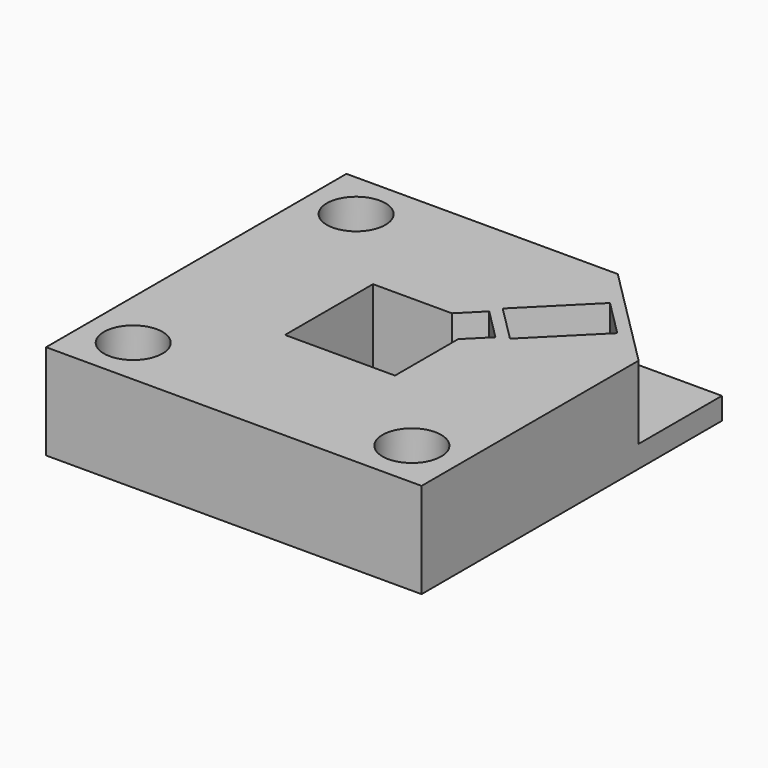
from build123d import *

# Parameters (mm, degrees)
F0_W      = 51.2
F0_H      = 51.2
F0_R      = 2
F1_DEPTH  = 3
F2_R      = 2
F3_DEPTH  = 5
F4_R      = 4
F5_DEPTH  = 5
F6_R      = 2
F7_DEPTH  = 2
F8_R      = 3.5
F9_DEPTH  = 11
F10_R     = 2
F11_DEPTH = 4
F13_DEPTH = 9


with BuildPart() as f1:
    # F0 (on Top) → F1 (new body)
    with BuildSketch(Plane.XY):
        Rectangle(F0_W, F0_H)
        with Locations((-19, -19)):
            Circle(F0_R, mode=Mode.SUBTRACT)
        with Locations((19, -19)):
            Circle(F0_R, mode=Mode.SUBTRACT)
        with Locations((-19, 19)):
            Circle(F0_R, mode=Mode.SUBTRACT)
    extrude(amount=F1_DEPTH)

    # F2 (on face) → F3 (join)
    with BuildSketch(Plane.XY.offset(3)):
        Polygon((11.4, 25.6), (-25.6, 25.6), (-25.6, -25.6), (25.6, -25.6), (25.6, 11.4), align=None)
        with Locations((-19, -19)):
            Circle(F2_R, mode=Mode.SUBTRACT)
        with Locations((19, -19)):
            Circle(F2_R, mode=Mode.SUBTRACT)
        with Locations((-19, 19)):
            Circle(F2_R, mode=Mode.SUBTRACT)
        Polygon((-7.5, -7.5), (-7.5, 7.5), (3.2573593129, 7.5), (6.0857864376, 10.3284271247), (10.3284271247, 6.0857864376), (7.5, 3.2573593129), (7.5, -7.5), align=None, mode=Mode.SUBTRACT)
    extrude(amount=F3_DEPTH)

    # F4 (on face) → F5 (join)
    with BuildSketch(Plane.XY.offset(8)):
        Polygon((11.4, 25.6), (-25.6, 25.6), (-25.6, -25.6), (25.6, -25.6), (25.6, 11.4), align=None)
        with Locations((-19, -19)):
            Circle(F4_R, mode=Mode.SUBTRACT)
        with Locations((19, -19)):
            Circle(F4_R, mode=Mode.SUBTRACT)
        with Locations((-19, 19)):
            Circle(F4_R, mode=Mode.SUBTRACT)
        Polygon((-7.5, -7.5), (-7.5, 7.5), (3.2573593129, 7.5), (6.0857864376, 10.3284271247), (10.3284271247, 6.0857864376), (7.5, 3.2573593129), (7.5, -7.5), align=None, mode=Mode.SUBTRACT)
    extrude(amount=F5_DEPTH)

    # F6 (on face) → F7 (cut)
    with BuildSketch(Plane(origin=(18.5, 18.5, 0), x_dir=(-0.7071067812, 0.7071067812, 0), z_dir=(0.7071067812, 0.7071067812, 0))):
        with Locations((0, 8)):
            Circle(F6_R)
    extrude(amount=-F7_DEPTH, mode=Mode.SUBTRACT)

    # F8 (on face) → F9 (cut)
    with BuildSketch(Plane(origin=(17.0857864376, 17.0857864376, 0), x_dir=(-0.7071067812, 0.7071067812, 0), z_dir=(0.7071067812, 0.7071067812, 0))):
        with Locations((0, 8)):
            Circle(F8_R)
    extrude(amount=-F9_DEPTH, mode=Mode.SUBTRACT)

    # F10 (on face) → F11 (cut)
    with BuildSketch(Plane(origin=(8.2071067812, 8.2071067812, 0), x_dir=(0.7071067812, -0.7071067812, 0), z_dir=(-0.7071067812, -0.7071067812, 0))):
        with Locations((0, 8)):
            Circle(F10_R)
    extrude(amount=-F11_DEPTH, mode=Mode.SUBTRACT)

    # F12 (on face) → F13 (cut)
    with BuildSketch(Plane.XY.offset(13)):
        Polygon((14.9213203436, 19.8710678119), (6.7928932188, 11.7426406871), (11.7426406871, 6.7928932188), (19.8710678119, 14.9213203436), align=None)
    extrude(amount=-F13_DEPTH, mode=Mode.SUBTRACT)


solid = f1.part
